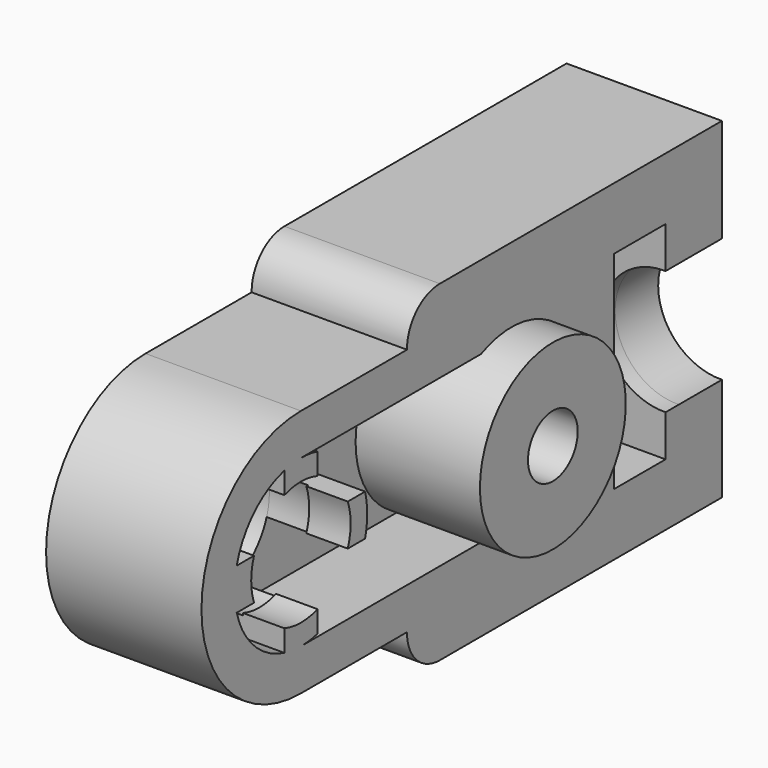
from build123d import *

# Parameters (mm, degrees)
PAD031_DEPTH            = 3.75
SKETCH061_R             = 1.5
POCKET029_DEPTH         = 3.75
POCKET035_DEPTH         = 2
SKETCH063_R             = 1.5
POCKET036_DEPTH         = 1.3
SKETCH064_R             = 2.2
PAD037_DEPTH            = 3
SKETCH065_W             = 2.8
SKETCH065_H             = 4
PAD038_DEPTH            = 2
SKETCH066_R             = 0.75
POCKET037_DEPTH         = 3
FILLET022_R             = 0.99
SKETCH073_W             = 2.2
SKETCH073_H             = 5
POCKET040_DEPTH         = 0.5
PAD197_DEPTH            = 0.4
PAD197_FACE23_W         = 5
PAD197_FACE23_H         = 2.5
PAD198_DEPTH            = 0.25
SKETCH338_R             = 1.55
SKETCH338_R_2           = 1.5
POCKET161_DEPTH         = 5
PAD201_DEPTH            = 2
PAD202_DEPTH            = 1
BODY006_ROLL_ANGLE      = -90
BODY006_PLACEMENT_ANGLE = -90


with BuildPart() as part:
    # Sketch060 → Pad031 (new body)
    with BuildSketch(Plane(origin=(-1, 0, -1.2), x_dir=(1, 0, 0), z_dir=(0, 0, 1))):
        with BuildLine():
            ThreePointArc((0, -3), (3, 0), (0, 3))
            Line((0, 3), (-3.2, 3))
            Line((-3.2, 3), (-3.2, 4))
            Line((-3.2, 4), (-12.7, 4))
            Line((-12.7, -4), (-12.7, 4))
            Line((-3.2, -4), (-12.7, -4))
            Line((-3.2, -3), (-3.2, -4))
            Line((0, -3), (-3.2, -3))
        make_face()
    extrude(amount=PAD031_DEPTH)

    # Sketch061 (on Face10 of Pad031) → Pocket029 (cut)
    with BuildSketch(Plane.XY.offset(2.55)):
        with Locations((-1, 0)):
            Circle(SKETCH061_R)
    extrude(amount=-POCKET029_DEPTH, mode=Mode.SUBTRACT)

    # Sketch062 (on DatumPlane) → Pocket035 (cut)
    with BuildSketch(Plane.XY.offset(2.55)):
        with BuildLine():
            ThreePointArc((-1, -2), (1, 0), (-1, 2))
            Line((-1, 2), (-10.2, 2))
            Line((-10.2, 2), (-10.2, 2.5))
            Line((-10.2, 2.5), (-12.4, 2.5))
            Line((-12.4, -2.5), (-12.4, 2.5))
            Line((-10.2, -2.5), (-12.4, -2.5))
            Line((-10.2, -2), (-10.2, -2.5))
            Line((-1, -2), (-10.2, -2))
        make_face()
    extrude(amount=-POCKET035_DEPTH, mode=Mode.SUBTRACT)

    # Sketch063 (on DatumPlane) → Pocket036 (cut)
    with BuildSketch(Plane(origin=(-13.7, 0, 0), x_dir=(0, -1, 0), z_dir=(-1, 0, 0))):
        with Locations((0, 2.511938)):
            Circle(SKETCH063_R)
    extrude(amount=-POCKET036_DEPTH, mode=Mode.SUBTRACT)

    # Sketch064 (on DatumPlane) → Pad037 (join)
    with BuildSketch(Plane.XY.offset(0.55)):
        with Locations((-7.35, 0)):
            Circle(SKETCH064_R)
    extrude(amount=PAD037_DEPTH)

    # Sketch065 (on DatumPlane) → Pad038 (join)
    with BuildSketch(Plane.XY.offset(0.55)):
        with Locations((-8.8, 0)):
            Rectangle(SKETCH065_W, SKETCH065_H)
    extrude(amount=PAD038_DEPTH)

    # Sketch066 (on DatumPlane) → Pocket037 (cut)
    with BuildSketch(Plane.XY.offset(3.55)):
        with Locations((-7.35, 0)):
            Circle(SKETCH066_R)
    extrude(amount=-POCKET037_DEPTH, mode=Mode.SUBTRACT)

    # Fillet022
    fillet022_edges = [part.edges().sort_by_distance(p)[0] for p in [
        (-4.2, 4, 0.675),
        (-4.2, -4, 0.675),
    ]]
    fillet(fillet022_edges, radius=FILLET022_R)

    # Sketch073 (on DatumPlane) → Pocket040 (cut)
    with BuildSketch(Plane.XY.offset(0.55)):
        with Locations((-11.3, 0)):
            Rectangle(SKETCH073_W, SKETCH073_H)
    extrude(amount=-POCKET040_DEPTH, mode=Mode.SUBTRACT)

    # Pocket040 Face23 → Pad197 (add)
    with BuildSketch(Plane(origin=(-12.4, 0, 1.054406), x_dir=(0, -1, 0), z_dir=(1, 0, 0))):
        with BuildLine():
            Line((1.499517, -1.495594), (2.5, -1.495594))
            Line((2.5, -1.495594), (2.5, 1.004406))
            Line((2.5, 1.004406), (-2.5, 1.004406))
            Line((-2.5, 1.004406), (-2.5, -1.495594))
            Line((-2.5, -1.495594), (-1.499517, -1.495594))
            ThreePointArc((-1.499517, -1.495594), (-0.019033, 0.042347), (1.5, -1.457532))
            ThreePointArc((1.5, -1.457532), (1.499879, -1.476565), (1.499517, -1.495594))
        make_face()
    extrude(amount=PAD197_DEPTH)

    # Pad197 Face23 → Pad198 (add)
    with BuildSketch(Plane(origin=(-10.2, 0, 1.3), x_dir=(0, 1, 0), z_dir=(-1, 0, 0))):
        Rectangle(PAD197_FACE23_W, PAD197_FACE23_H)
    extrude(amount=PAD198_DEPTH)

    # Sketch338 (on Face18 of Pad198) → Pocket161 (cut)
    with BuildSketch(Plane.XY.offset(0.55)):
        with Locations((-1, 0)):
            Circle(SKETCH338_R)
        with Locations((-1, 0)):
            Circle(SKETCH338_R_2, mode=Mode.SUBTRACT)
    extrude(amount=-POCKET161_DEPTH, mode=Mode.SUBTRACT)

    # Sketch339 (on Face23 of Pocket161) → Pad201 (join)
    with BuildSketch(Plane.XY.offset(0.55)):
        with BuildLine():
            ThreePointArc((-0.5, 1.46714), (-1, 1.55), (-1.5, 1.46714))
            Line((-1.5, 1.936492), (-1.5, 1.46714))
            ThreePointArc((-0.5, 1.936492), (-1, 2), (-1.5, 1.936492))
            Line((-0.5, 1.936492), (-0.5, 1.46714))
        make_face()
        with BuildLine():
            ThreePointArc((-1.5, -1.46714), (-1, -1.55), (-0.5, -1.46714))
            Line((-0.5, -1.46714), (-0.5, -1.936492))
            ThreePointArc((-1.5, -1.936492), (-1, -2), (-0.5, -1.936492))
            Line((-1.5, -1.46714), (-1.5, -1.936492))
        make_face()
        with BuildLine():
            ThreePointArc((-2.46714, 0.5), (-2.55, 0), (-2.46714, -0.5))
            Line((-2.46714, -0.5), (-2.936492, -0.5))
            ThreePointArc((-2.936492, 0.5), (-3, 0), (-2.936492, -0.5))
            Line((-2.46714, 0.5), (-2.936492, 0.5))
        make_face()
        with BuildLine():
            ThreePointArc((0.46714, -0.5), (0.55, 0), (0.46714, 0.5))
            Line((0.936492, 0.5), (0.46714, 0.5))
            ThreePointArc((0.936492, -0.5), (1, 0), (0.936492, 0.5))
            Line((0.936492, -0.5), (0.46714, -0.5))
        make_face()
    extrude(amount=PAD201_DEPTH)

    # Sketch340 (on Face31 of Pad201) → Pad202 (join)
    with BuildSketch(Plane.XY.offset(2.55)):
        with BuildLine():
            ThreePointArc((-2.46714, 0.5), (-2.55, 0), (-2.46714, -0.5))
            Line((-2.414214, -0.5), (-2.46714, -0.5))
            ThreePointArc((-2.414214, 0.5), (-2.5, 0), (-2.414214, -0.5))
            Line((-2.414214, 0.5), (-2.46714, 0.5))
        make_face()
        with BuildLine():
            ThreePointArc((-1.5, -1.46714), (-1, -1.55), (-0.5, -1.46714))
            Line((-0.5, -1.46714), (-0.5, -1.414214))
            ThreePointArc((-1.5, -1.414214), (-1, -1.5), (-0.5, -1.414214))
            Line((-1.5, -1.46714), (-1.5, -1.414214))
        make_face()
        with BuildLine():
            ThreePointArc((-0.5, 1.46714), (-1, 1.55), (-1.5, 1.46714))
            Line((-1.5, 1.46714), (-1.5, 1.414214))
            ThreePointArc((-0.5, 1.414214), (-1, 1.5), (-1.5, 1.414214))
            Line((-0.5, 1.46714), (-0.5, 1.414214))
        make_face()
        with BuildLine():
            ThreePointArc((0.46714, -0.5), (0.55, 0), (0.46714, 0.5))
            Line((0.414214, 0.5), (0.46714, 0.5))
            ThreePointArc((0.414214, -0.5), (0.5, 0), (0.414214, 0.5))
            Line((0.46714, -0.5), (0.414214, -0.5))
        make_face()
    extrude(amount=-PAD202_DEPTH)


with BuildPart() as part_1:
    # Body006 roll: moved
    add(part.part.rotate(Axis((0, 0, 0), (1, 0, 0)), BODY006_ROLL_ANGLE))


with BuildPart() as part_2:
    # Body006 placement: moved
    add(part_1.part.moved(Location((30.25, -34.7, 7.25))).rotate(Axis((30.25, -34.7, 7.25), (0, 0, 1)), BODY006_PLACEMENT_ANGLE))


solid = part_2.part
